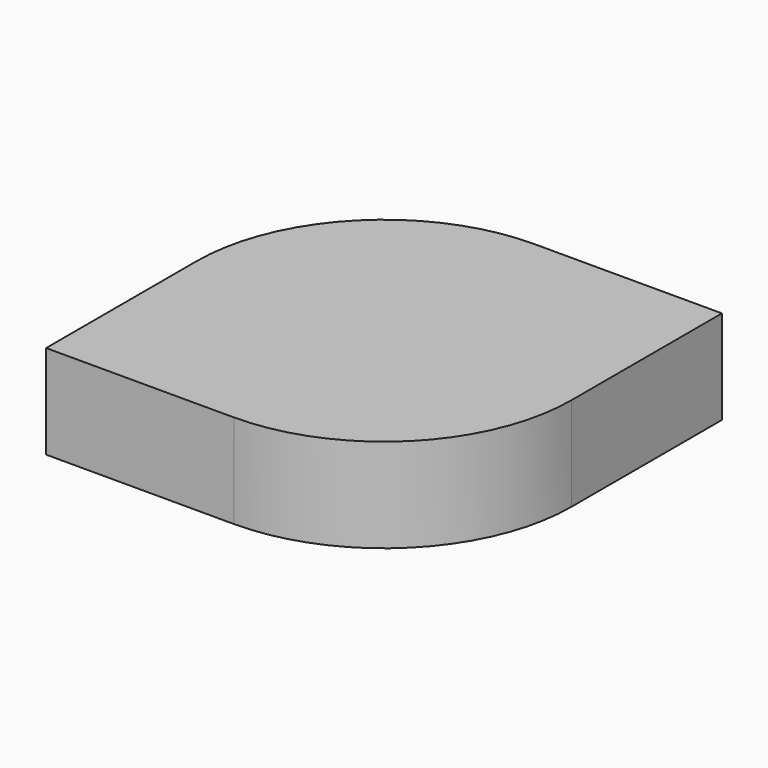
from build123d import *

# Parameters (mm, degrees)
F1_DEPTH = 25


with BuildPart() as f1:
    # F0 (on Top) → F1 (new body)
    with BuildSketch(Plane.XY):
        with BuildLine():
            Line((50, 50), (0, 50))
            ThreePointArc((0, 50), (-35.355339, 35.355339), (-50, 0))
            Line((-50, 0), (-50, -50))
            Line((-50, -50), (0, -50))
            ThreePointArc((0, -50), (35.355339, -35.355339), (50, 0))
            Line((50, 0), (50, 50))
        make_face()
    extrude(amount=F1_DEPTH)


solid = f1.part
